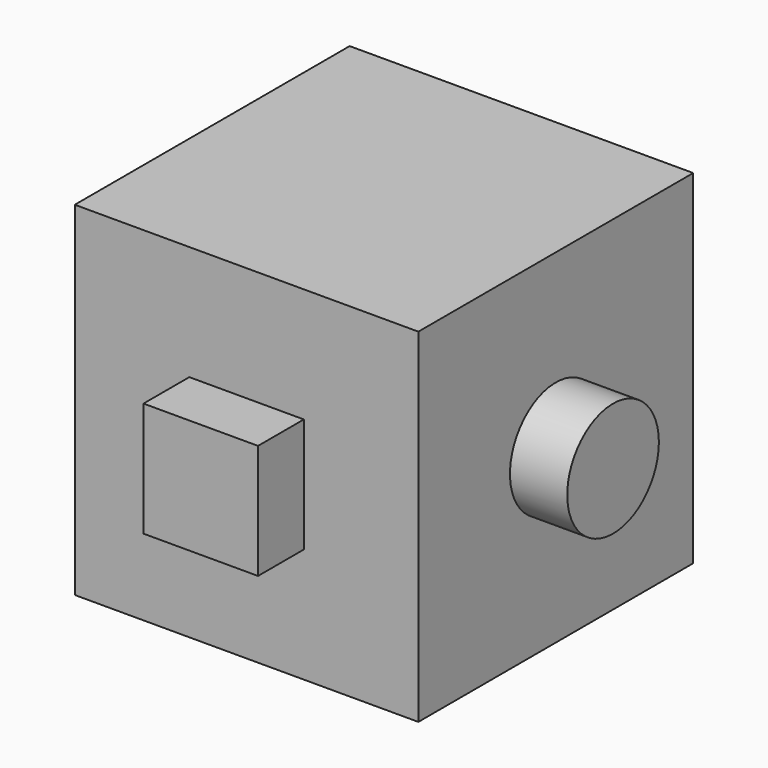
from build123d import *

# Parameters (mm, degrees)
F0_W     = 76.2
F0_H     = 76.2
F1_DEPTH = 76.2
F2_W     = 25.4
F2_H     = 25.4
F3_DEPTH = 12.7
F4_R     = 12.7
F5_DEPTH = 12.7


with BuildPart() as f1:
    # F0 (on Front) → F1 (new body)
    with BuildSketch(Plane.XZ):
        with Locations((-38.1, 39.819894)):
            Rectangle(F0_W, F0_H)
    extrude(amount=F1_DEPTH)

    # F2 (on face) → F3 (join)
    with BuildSketch(Plane.XZ.offset(76.2)):
        with Locations((-38.1, 39.819894)):
            Rectangle(F2_W, F2_H)
    extrude(amount=F3_DEPTH)

    # F4 (on face) → F5 (join)
    with BuildSketch(Plane.YZ):
        with Locations((-38.1, 39.819894)):
            Circle(F4_R)
    extrude(amount=F5_DEPTH)


solid = f1.part
